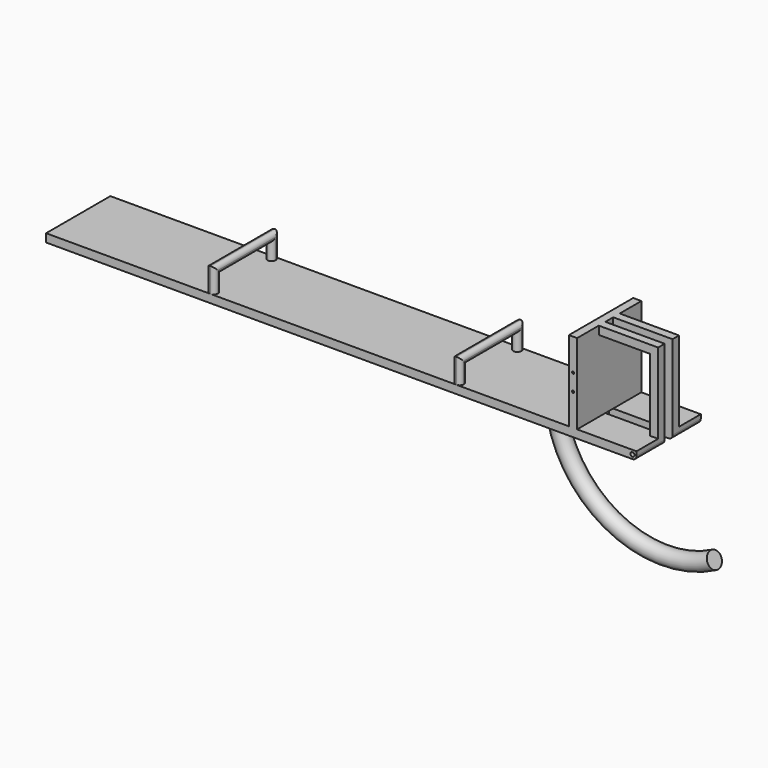
from build123d import *

# Parameters (mm, degrees)
F1_DEPTH  = 20
F2_R      = 10
F5_R      = 20
F9_DEPTH  = 196.2
F11_R     = 2.5
F12_DEPTH = 30
F14_R     = 2.5
F15_DEPTH = 30
F18_DEPTH = 20
F21_DEPTH = 20
F23_DEPTH = 20
F26_DEPTH = 20


with BuildPart() as f1:
    # F0 (on Top) → F1 (new body)
    with BuildSketch(Plane.XY):
        Polygon((0, -98.1), (0, -12), (-155, -12), (-155, 0), (-155, 12), (0, 12), (0, 98.1), (-1441.76, 98.1), (-1441.76, -98.1), align=None)
    extrude(amount=-F1_DEPTH)

    # F2
    f2_edges = [f1.edges().sort_by_distance(p)[0] for p in [
        (0, -55.05, -20),
        (0, 55.05, -20),
    ]]
    fillet(f2_edges, radius=F2_R)

    # F6: sweep along a path in F4
    with BuildLine(Plane.XZ) as f6_path:
        ThreePointArc((-276.33, 0), (-148.7703707389, -227.3201555186), (111.7183092779, -236.8888390924))
    # F5 (on Top) → F6 (sweep)
    with BuildSketch(Plane.XY):
        with Locations((-276.33, 0)):
            Circle(F5_R)
    sweep(path=f6_path.line)

    # F8 (on offset) → F9 (join)
    with BuildSketch(Plane.XZ.offset(98.1)):
        Polygon((-155, 0), (-145, 0), (-145, 196.2), (-155, 196.2), (-165, 196.2), (-165, 0), align=None)
    extrude(amount=-F9_DEPTH)

    # F11 (on offset) → F12 (cut)
    with BuildSketch(Plane.XZ.offset(98.1)):
        with Locations((-155, 118.6)):
            Circle(F11_R)
        with Locations((-155, 77.6)):
            Circle(F11_R)
    extrude(amount=-F12_DEPTH, mode=Mode.SUBTRACT)

    # F14 (on offset) → F15 (cut)
    with BuildSketch(Plane(origin=(0, 98.1, 0), x_dir=(-1, 0, 0), z_dir=(0, 1, 0))):
        with Locations((155, 118.6)):
            Circle(F14_R)
        with Locations((155, 77.6)):
            Circle(F14_R)
    extrude(amount=-F15_DEPTH, mode=Mode.SUBTRACT)

    # F17 (on offset) → F18 (join)
    with BuildSketch(Plane.XZ.offset(-12)):
        Polygon((-20, 0), (0, 0), (0, 196.2), (-145, 196.2), (-145, 176.2), (-20, 176.2), align=None)
    extrude(amount=-F18_DEPTH)

    # F20 (on offset) → F21 (join)
    with BuildSketch(Plane(origin=(0, -12, 0), x_dir=(-1, 0, 0), z_dir=(0, 1, 0))):
        Polygon((0, 196.2), (0, 0), (20, 0), (20, 176.2), (145, 176.2), (145, 196.2), align=None)
    extrude(amount=-F21_DEPTH)

    # F22 (on offset) → F23 (cut)
    with BuildSketch(Plane.XZ.offset(98.1)):
        with BuildLine():
            ThreePointArc((-10, -5), (-13.5355339059, -13.5355339059), (-5, -10))
            ThreePointArc((-5, -10), (-6.4644660941, -6.4644660941), (-10, -5))
        make_face()
    extrude(amount=-F23_DEPTH, mode=Mode.SUBTRACT)

    # F25 (on offset) → F26 (cut)
    with BuildSketch(Plane(origin=(0, 98.1, 0), x_dir=(-1, 0, 0), z_dir=(0, 1, 0))):
        with BuildLine():
            ThreePointArc((10, -5), (6.4644660941, -13.5355339059), (15, -10))
            ThreePointArc((15, -10), (13.5355339059, -6.4644660941), (10, -5))
        make_face()
    extrude(amount=-F26_DEPTH, mode=Mode.SUBTRACT)

    # F29: sweep along a path in F28
    with BuildLine(Plane(origin=(-440, 0, 0), x_dir=(0, -1, 0), z_dir=(-1, 0, 0))) as f29_path:
        Line((88.1, 0), (88.1, 50))
        Line((88.1, 50), (-88.1, 50))
        Line((-88.1, 50), (-88.1, 0))
    # F3 (on Top) → F29 (sweep)
    with BuildSketch(Plane.XY):
        with BuildLine():
            ThreePointArc((-440, -98.1), (-432.9289321881, -95.1710678119), (-430, -88.1))
            ThreePointArc((-430, -88.1), (-447.0710678119, -81.0289321881), (-440, -98.1))
        make_face()
    sweep(path=f29_path.line, transition=Transition.RIGHT)

    # F32: sweep along a path in F31
    with BuildLine(Plane(origin=(-1040, 0, 0), x_dir=(0, -1, 0), z_dir=(-1, 0, 0))) as f32_path:
        Line((88.1, 0), (88.1, 50))
        Line((88.1, 50), (-88.1, 50))
        Line((-88.1, 50), (-88.1, 0))
    # F3 (on Top) → F32 (sweep)
    with BuildSketch(Plane.XY):
        with BuildLine():
            ThreePointArc((-1040, -98.1), (-1032.9289321881, -95.1710678119), (-1030, -88.1))
            ThreePointArc((-1030, -88.1), (-1047.0710678119, -81.0289321881), (-1040, -98.1))
        make_face()
    sweep(path=f32_path.line, transition=Transition.RIGHT)


solid = f1.part
